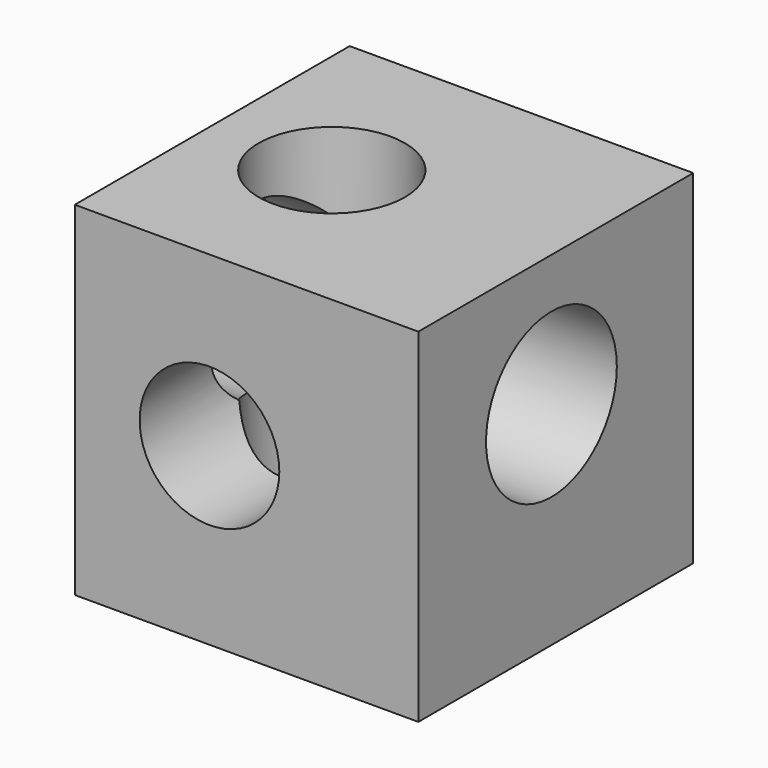
from build123d import *

# Parameters (mm, degrees)
F0_W     = 101.6
F0_H     = 101.6
F1_DEPTH = 101.6
F2_R     = 20.646912
F3_DEPTH = 101.601
F4_R     = 24.17064
F5_DEPTH = 101.601
F6_R     = 21.63233
F7_DEPTH = 101.601


with BuildPart() as f1:
    # F0 (on Front) → F1 (new body)
    with BuildSketch(Plane.XZ):
        with Locations((-1.142633, 8.120247)):
            Rectangle(F0_W, F0_H)
    extrude(amount=F1_DEPTH)

    # F2 (on face) → F3 (cut, through all)
    with BuildSketch(Plane.XZ.offset(101.6)):
        with Locations((-12.109866, 9.112972)):
            Circle(F2_R)
    extrude(amount=-F3_DEPTH, mode=Mode.SUBTRACT)

    # F4 (on face) → F5 (cut, through all)
    with BuildSketch(Plane.YZ.offset(49.657367)):
        with Locations((-52.407775, 20.026291)):
            Circle(F4_R)
    extrude(amount=-F5_DEPTH, mode=Mode.SUBTRACT)

    # F6 (on face) → F7 (cut, through all)
    with BuildSketch(Plane.XY.offset(58.920247)):
        with Locations((-16.401816, -51.030468)):
            Circle(F6_R)
    extrude(amount=-F7_DEPTH, mode=Mode.SUBTRACT)


solid = f1.part
